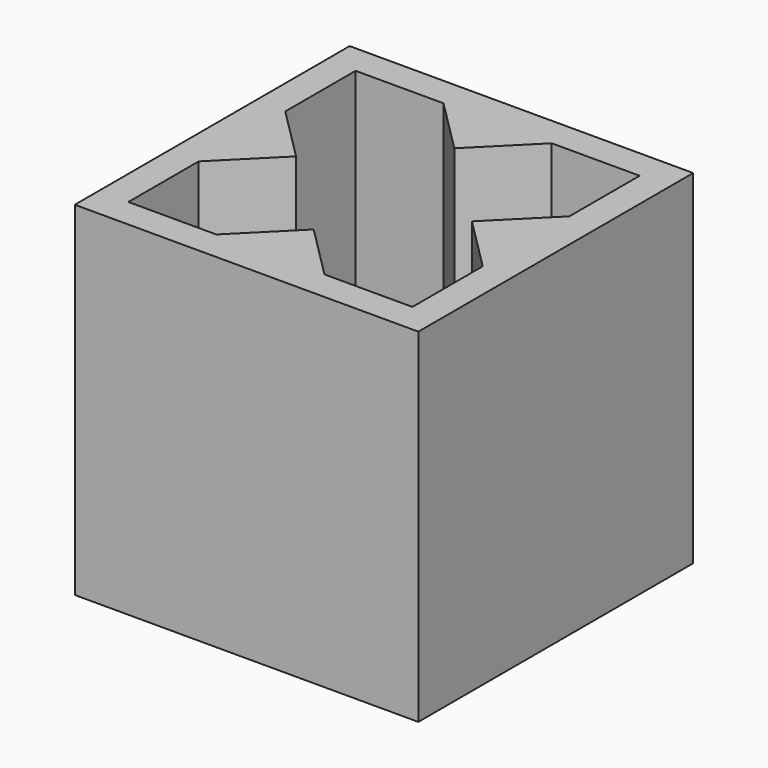
from build123d import *

# Parameters (mm, degrees)
F0_W     = 25.4
F0_H     = 25.4
F1_DEPTH = 25.4
F3_DEPTH = 20


with BuildPart() as f1:
    # F0 (on Top) → F1 (new body)
    with BuildSketch(Plane.XY):
        with Locations((12.7, 12.7)):
            Rectangle(F0_W, F0_H)
    extrude(amount=F1_DEPTH)

    # F2 (on face) → F3 (cut)
    with BuildSketch(Plane.XY.offset(25.4)):
        Polygon((19.2, 12.7), (12.7, 12.7), (12.7, 6.2), (16.7, 2.2), (23.2, 2.2), (23.2, 8.7), align=None)
        Polygon((12.7, 19.2), (12.7, 12.7), (19.2, 12.7), (23.2, 16.7), (23.2, 23.2), (16.7, 23.2), align=None)
        Polygon((12.7, 12.7), (6.2, 12.7), (2.2, 8.7), (2.2, 2.2), (8.7, 2.2), (12.7, 6.2), align=None)
        Polygon((2.2, 16.7), (6.2, 12.7), (12.7, 12.7), (12.7, 19.2), (8.7, 23.2), (2.2, 23.2), align=None)
    extrude(amount=-F3_DEPTH, mode=Mode.SUBTRACT)


solid = f1.part
